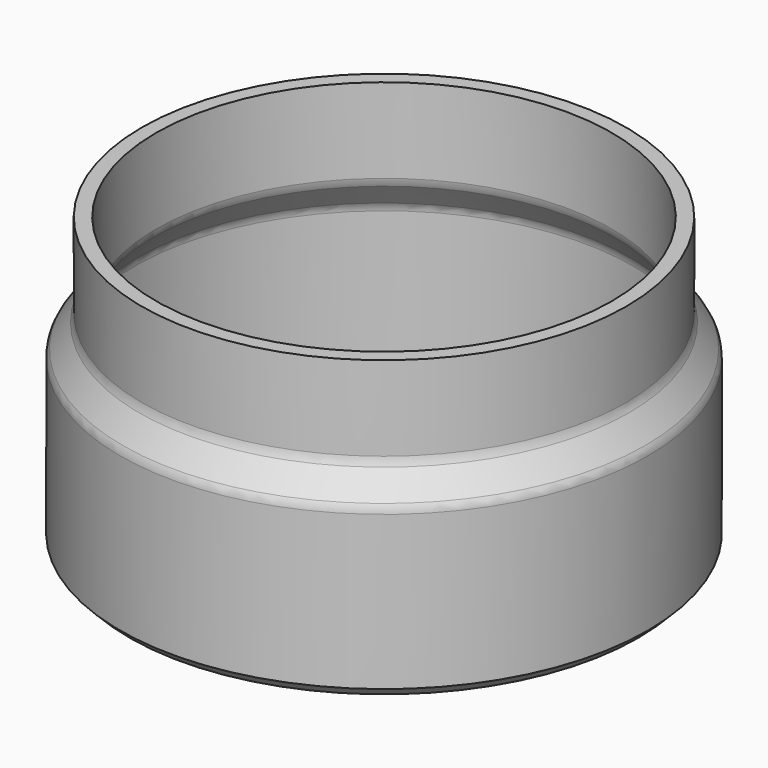
from build123d import *

# Parameters (mm, degrees)
FILLET_R     = 3
CHAMFER_SIZE = 2


with BuildPart() as part:
    # Sketch → Revolution (revolve)
    with BuildSketch(Plane.XZ):
        Polygon((52, 0), (52, 35), (47.5, 41.426666), (47.5, 60), (50.5, 60), (50.5, 41.426666), (55, 35), (55, 0), align=None)
    revolve(axis=Axis((0, 0, 0), (0, 0, 1)))

    # Fillet
    fillet_edges = [part.edges().sort_by_distance(p)[0] for p in [
        (-50.5, 0, 41.426666),
        (-55, 0, 35),
        (52.75, 0, 38.213333),
        (-52, 0, 35),
        (-47.5, 0, 41.426666),
        (49.75, 0, 38.213333),
    ]]
    fillet(fillet_edges, radius=FILLET_R)

    # Chamfer
    chamfer_edges = [part.edges().sort_by_distance(p)[0] for p in [
        (-55, 0, 0),
    ]]
    chamfer(chamfer_edges, length=CHAMFER_SIZE)


solid = part.part
